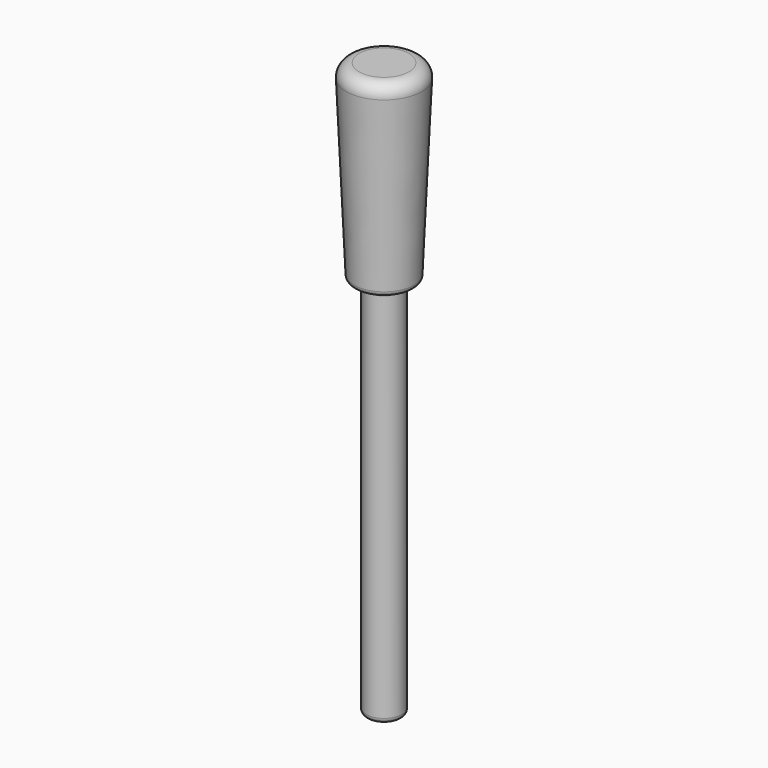
from build123d import *

# Parameters (mm, degrees)
SKETCH001_R  = 7.071068
PAD001_DEPTH = 225
SKETCH002_R  = 15
PAD002_DEPTH = 75
PAD002_TAPER = 2.5
FILLET001_R  = 2
FILLET002_R  = 5


with BuildPart() as part:
    # Sketch001 → Pad001 (new body)
    with BuildSketch(Plane.XY):
        with Locations((15, 0)):
            Circle(SKETCH001_R)
    extrude(amount=PAD001_DEPTH)

    # Sketch002 → Pad002 (join)
    with BuildSketch(Plane.XY.offset(225)):
        with Locations((15, 0)):
            Circle(SKETCH002_R)
    extrude(amount=-PAD002_DEPTH, taper=PAD002_TAPER)

    # Fillet001
    fillet001_edges = [part.edges().sort_by_distance(p)[0] for p in [
        (7.928932, 0, 0),
        (7.928932, 0, 150),
        (3.274571, 0, 150),
    ]]
    fillet(fillet001_edges, radius=FILLET001_R)

    # Fillet002
    fillet002_edges = [part.edges().sort_by_distance(p)[0] for p in [
        (0, 0, 225),
    ]]
    fillet(fillet002_edges, radius=FILLET002_R)


solid = part.part
